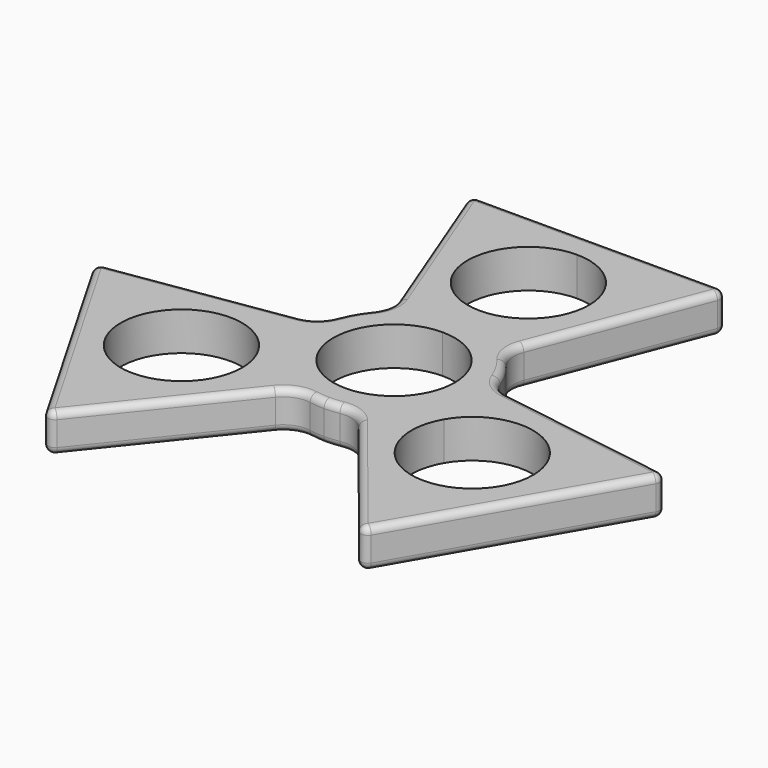
from build123d import *

# Parameters (mm, degrees)
F1_DEPTH = 6.985
F2_R     = 5.08
F3_R     = 1.27
F4_R     = 1.27
F5_R     = 1.27


with BuildPart() as f1:
    # F0 (on Top) → F1 (new body)
    with BuildSketch(Plane.XY):
        with BuildLine():
            ThreePointArc((0, 11.0109), (7.785882057, 7.785882057), (11.0109, 0))
            ThreePointArc((11.0109, 0), (10.6357126807, -2.8498306237), (9.5357191185, -5.50545))
            Line((9.5357191185, -5.50545), (13.7481532851, -7.9375))
            ThreePointArc((13.7481532851, -7.9375), (15.3340724923, -4.108752341), (15.875, 0))
            ThreePointArc((15.875, 0), (15.8170783389, 1.3548645034), (15.6437360224, 2.6998422663))
            ThreePointArc((15.6437360224, 2.6998422663), (13.7481532851, 7.9375), (10.16, 12.1979516723))
            ThreePointArc((10.16, 12.1979516723), (5.4024597269, 14.9274597269), (0, 15.875))
            Line((0, 15.875), (0, 11.0109))
        make_face()
        with BuildLine():
            ThreePointArc((-9.5357191185, -5.50545), (-9.5357191185, 5.50545), (0, 11.0109))
            Line((0, 11.0109), (0, 15.875))
            ThreePointArc((0, 15.875), (-5.4024597269, 14.9274597269), (-10.16, 12.1979516723))
            ThreePointArc((-10.16, 12.1979516723), (-13.7481532851, 7.9375), (-15.6437360224, 2.6998422663))
            ThreePointArc((-15.6437360224, 2.6998422663), (-15.6287892009, -2.785062497), (-13.7481532851, -7.9375))
            Line((-13.7481532851, -7.9375), (-9.5357191185, -5.50545))
        make_face()
        with BuildLine():
            Line((13.7481532851, -7.9375), (9.5357191185, -5.50545))
            ThreePointArc((9.5357191185, -5.50545), (5.50545, -9.5357191185), (0, -11.0109))
            Line((0, -11.0109), (0, -15.875))
            ThreePointArc((0, -15.875), (2.785062497, -15.6287892009), (5.4837360224, -14.8977939386))
            ThreePointArc((5.4837360224, -14.8977939386), (10.226329474, -12.1423972299), (13.7481532851, -7.9375))
        make_face()
        with BuildLine():
            ThreePointArc((0, -11.0109), (-5.50545, -9.5357191185), (-9.5357191185, -5.50545))
            Line((-9.5357191185, -5.50545), (-13.7481532851, -7.9375))
            ThreePointArc((-13.7481532851, -7.9375), (-10.226329474, -12.1423972299), (-5.4837360224, -14.8977939386))
            ThreePointArc((-5.4837360224, -14.8977939386), (-2.785062497, -15.6287892009), (0, -15.875))
            Line((0, -15.875), (0, -11.0109))
        make_face()
        with BuildLine():
            ThreePointArc((-10.16, 12.1979516723), (-5.4024597269, 14.9274597269), (0, 15.875))
            Line((0, 15.875), (0, 19.4691))
            ThreePointArc((0, 19.4691), (-11.0109, 30.48), (0, 41.4909))
            Line((0, 41.4909), (0, 46.5709))
            Line((0, 46.5709), (-23.5138484807, 46.5709))
            Line((-23.5138484807, 46.5709), (-10.16, 12.1979516723))
        make_face()
        with BuildLine():
            Line((0, 19.4691), (0, 15.875))
            ThreePointArc((0, 15.875), (5.4024597269, 14.9274597269), (10.16, 12.1979516723))
            Line((10.16, 12.1979516723), (23.5138484807, 46.5709))
            Line((23.5138484807, 46.5709), (0, 46.5709))
            Line((0, 46.5709), (0, 41.4909))
            ThreePointArc((0, 41.4909), (7.785882057, 38.265882057), (11.0109, 30.48))
            ThreePointArc((11.0109, 30.48), (7.785882057, 22.694117943), (0, 19.4691))
        make_face()
        with BuildLine():
            ThreePointArc((15.875, 0), (15.3340724923, -4.108752341), (13.7481532851, -7.9375))
            ThreePointArc((13.7481532851, -7.9375), (10.226329474, -12.1423972299), (5.4837360224, -14.8977939386))
            Line((5.4837360224, -14.8977939386), (28.5746582368, -43.649040125))
            Line((28.5746582368, -43.649040125), (52.0885067174, -2.921859875))
            Line((52.0885067174, -2.921859875), (15.6437360224, 2.6998422663))
            ThreePointArc((15.6437360224, 2.6998422663), (15.8170783389, 1.3548645034), (15.875, 0))
        make_face()
        with BuildLine():
            ThreePointArc((37.4073543073, -15.24), (23.5466236836, -25.8757126807), (16.8607351888, -9.73455))
            ThreePointArc((16.8607351888, -9.73455), (29.2462849311, -4.6042873193), (37.4073543073, -15.24))
        make_face(mode=Mode.SUBTRACT)
        with BuildLine():
            ThreePointArc((-5.4837360224, -14.8977939386), (-10.226329474, -12.1423972299), (-13.7481532851, -7.9375))
            ThreePointArc((-13.7481532851, -7.9375), (-15.6287892009, -2.785062497), (-15.6437360224, 2.6998422663))
            Line((-15.6437360224, 2.6998422663), (-52.0885067174, -2.921859875))
            Line((-52.0885067174, -2.921859875), (-28.5746582368, -43.649040125))
            Line((-28.5746582368, -43.649040125), (-5.4837360224, -14.8977939386))
        make_face()
        with BuildLine():
            ThreePointArc((-15.3855543073, -15.24), (-37.032166988, -18.0898306237), (-16.8607351888, -9.73455))
            ThreePointArc((-16.8607351888, -9.73455), (-15.7607416267, -12.3901693763), (-15.3855543073, -15.24))
        make_face(mode=Mode.SUBTRACT)
    extrude(amount=F1_DEPTH)

    # F2
    f2_edges = [f1.edges().sort_by_distance(p)[0] for p in [
        (15.643736, 2.699842, 3.4925),
        (10.16, 12.197952, 3.4925),
        (5.483736, -14.897794, 3.4925),
        (-5.483736, -14.897794, 3.4925),
        (-15.643736, 2.699842, 3.4925),
        (-10.16, 12.197952, 3.4925),
    ]]
    fillet(f2_edges, radius=F2_R)

    # F3
    f3_edges = [f1.edges().sort_by_distance(p)[0] for p in [
        (52.088507, -2.92186, 3.4925),
        (28.574658, -43.64904, 3.4925),
        (-28.574658, -43.64904, 3.4925),
        (23.513848, 46.5709, 3.4925),
        (-23.513848, 46.5709, 3.4925),
        (-52.088507, -2.92186, 3.4925),
    ]]
    fillet(f3_edges, radius=F3_R)

    # F4
    f4_edges = [f1.edges().sort_by_distance(p)[0] for p in [
        (40.331582, -23.28545, 6.985),
    ]]
    fillet(f4_edges, radius=F4_R)

    # F5
    f5_edges = [f1.edges().sort_by_distance(p)[0] for p in [
        (-34.576172, -0.220536, 0),
    ]]
    fillet(f5_edges, radius=F5_R)


solid = f1.part
